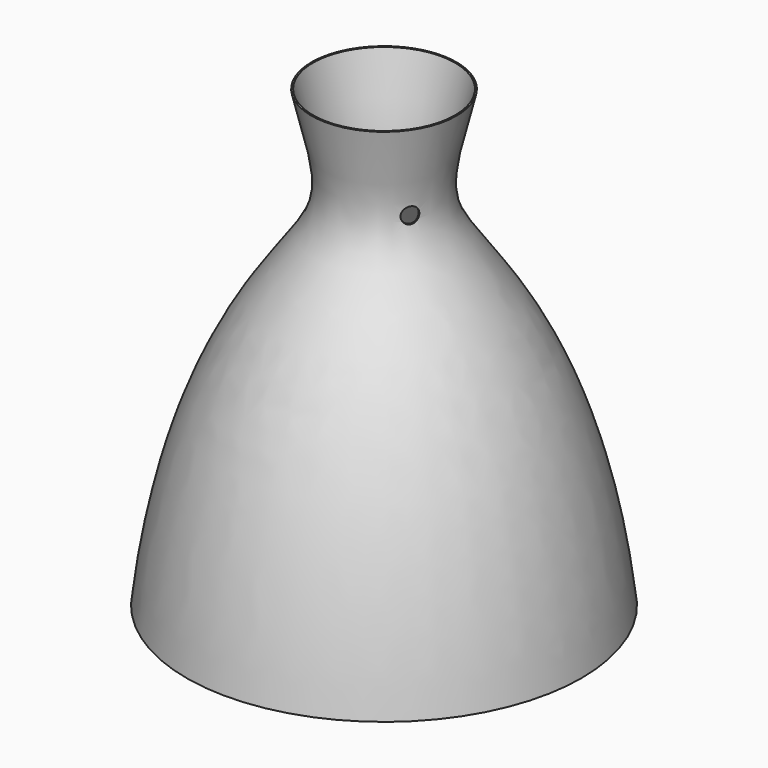
from build123d import *

# Parameters (mm, degrees)
THICKNESS_T        = 1
SKETCH001_R        = 5.337434
POCKET_DEPTH       = 1106.834523
POLARPATTERN_COUNT = 3


with BuildPart() as part:
    # Sketch → Revolution (revolve)
    with BuildSketch(Plane.XZ):
        with BuildLine():
            Line((0, 0), (0, 307))
            Line((0, 307), (48, 307))
            add(Edge.make_bspline(
                [(48, 307), (32.286972, 247.517242), (32.720974, 233.629166), (117.639626, 128.308731), (132.5, 0)],
                knots=[0, 0, 0, 0, 0.5, 1, 1, 1, 1], degree=3))
            Line((132.5, 0), (0, 0))
        make_face()
    revolve(axis=Axis((0, 0, 0), (0, 0, 1)))

    # Thickness
    thickness_openings = [part.faces().sort_by_distance(p)[0] for p in [
        (0, 0, 0),
        (0, 0, 307),
    ]]
    offset(amount=THICKNESS_T, openings=thickness_openings)

    # Sketch001 → Pocket (cut, through all)
    with BuildSketch(Plane.XZ):
        with Locations((0, 250.338425)):
            Circle(SKETCH001_R)
    pocket = extrude(amount=-POCKET_DEPTH, mode=Mode.SUBTRACT)

    # PolarPattern: Pocket ×3 about axis
    polarpattern_axis = Axis((0, 0, 0), (0, 0, 1))
    for i in range(1, POLARPATTERN_COUNT):
        add(pocket.rotate(polarpattern_axis, i * 360 / POLARPATTERN_COUNT), mode=Mode.SUBTRACT)


solid = part.part
